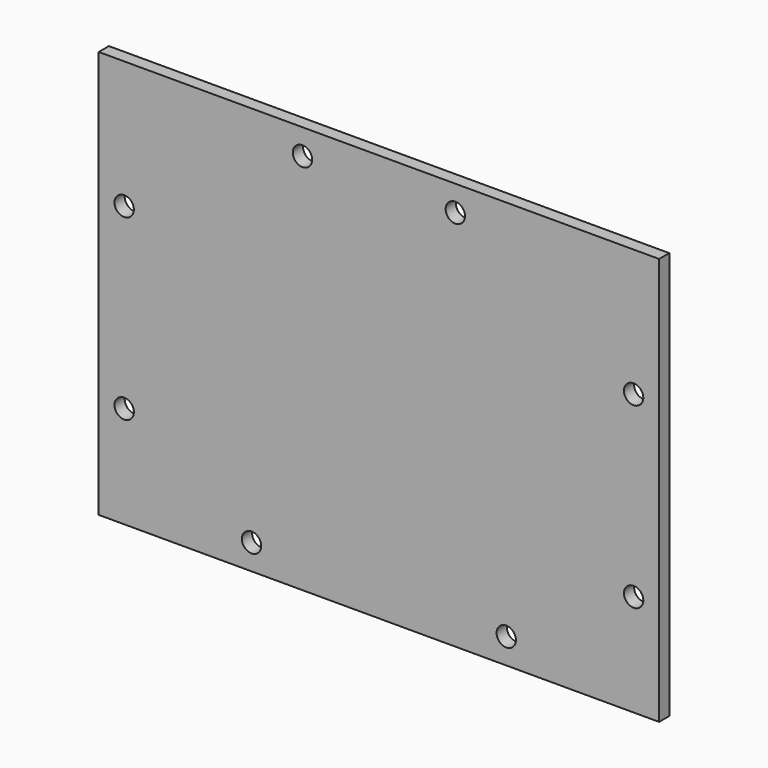
from build123d import *

# Parameters (mm, degrees)
F0_W      = 139.7
F0_H      = 101.6
F1_DEPTH  = 1.5875
F2_R      = 2.413
F3_DEPTH  = 3.175
F4_R      = 2.413
F5_DEPTH  = 3.175
F6_R      = 2.413
F8_DEPTH  = 3.175
F7_R      = 2.413
F9_DEPTH  = 3.175
F10_R     = 2.413
F12_DEPTH = 3.175
F11_R     = 2.413
F13_DEPTH = 3.175


with BuildPart() as f1:
    # F0 (on Front) → F1 (new body, symmetric)
    with BuildSketch(Plane.XZ):
        Rectangle(F0_W, F0_H)
    extrude(amount=F1_DEPTH, both=True)

    # F2 (on face) → F3 (cut)
    with BuildSketch(Plane.XZ.offset(1.5875)):
        with Locations((-19.05, 44.45)):
            Circle(F2_R)
        with Locations((19.05, 44.45)):
            Circle(F2_R)
    extrude(amount=-F3_DEPTH, mode=Mode.SUBTRACT)

    # F4 (on face) → F5 (cut)
    with BuildSketch(Plane.XZ.offset(1.5875)):
        with Locations((63.5, 19.05)):
            Circle(F4_R)
        with Locations((63.5, -25.4)):
            Circle(F4_R)
    extrude(amount=-F5_DEPTH, mode=Mode.SUBTRACT)

    # F6 (on face) → F8 (cut)
    with BuildSketch(Plane.XZ.offset(1.5875)):
        with Locations((-31.75, -44.45)):
            Circle(F6_R)
    extrude(amount=-F8_DEPTH, mode=Mode.SUBTRACT)

    # F7 (on face) → F9 (cut)
    with BuildSketch(Plane.XZ.offset(1.5875)):
        with Locations((31.75, -44.45)):
            Circle(F7_R)
    extrude(amount=-F9_DEPTH, mode=Mode.SUBTRACT)

    # F10 (on face) → F12 (cut)
    with BuildSketch(Plane.XZ.offset(1.5875)):
        with Locations((-63.5, 19.05)):
            Circle(F10_R)
    extrude(amount=-F12_DEPTH, mode=Mode.SUBTRACT)

    # F11 (on face) → F13 (cut)
    with BuildSketch(Plane.XZ.offset(1.5875)):
        with Locations((-63.5, -25.4)):
            Circle(F11_R)
    extrude(amount=-F13_DEPTH, mode=Mode.SUBTRACT)


solid = f1.part
